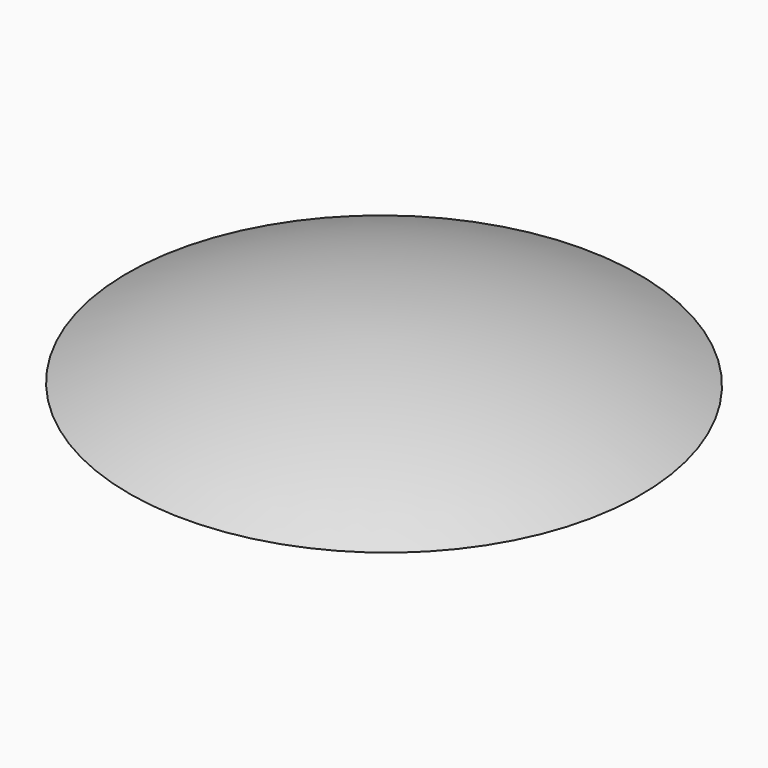
from build123d import *

# Parameters (mm, degrees)
COMMON_ROLL_ANGLE      = 1.758488
COMMON_PITCH_ANGLE     = 1.705337
COMMON_PLACEMENT_ANGLE = 1.758488


with BuildPart() as sphere001:
    # Sphere001 → Sphere001 (revolve)
    with BuildSketch(Plane(origin=(0, 0, -92), x_dir=(1, 0, 0), z_dir=(0, -1, 0))):
        with BuildLine():
            ThreePointArc((0, -51), (51, 0), (0, 51))
            Line((0, 51), (0, -51))
        make_face()
    revolve(axis=Axis((0, 0, -92), (0, 0, 1)))


with BuildPart() as common:
    # Sphere → Sphere (revolve)
    with BuildSketch(Plane.XZ):
        with BuildLine():
            ThreePointArc((0, -51), (51, 0), (0, 51))
            Line((0, 51), (0, -51))
        make_face()
    revolve(axis=Axis((0, 0, 0), (0, 0, 1)))

    # Common: intersect Sphere001
    add(sphere001.part, mode=Mode.INTERSECT)


with BuildPart() as common_1:
    # Common roll: moved
    add(common.part.rotate(Axis((0, 0, 0), (1, 0, 0)), COMMON_ROLL_ANGLE))


with BuildPart() as common_2:
    # Common pitch: moved
    add(common_1.part.rotate(Axis((0, 0, 0), (0, 1, 0)), COMMON_PITCH_ANGLE))


with BuildPart() as common_3:
    # Common placement: moved
    add(common_2.part.moved(Location((0, 0, 61))).rotate(Axis((0, 0, 61), (0, 0, 1)), COMMON_PLACEMENT_ANGLE))


solid = common_3.part
